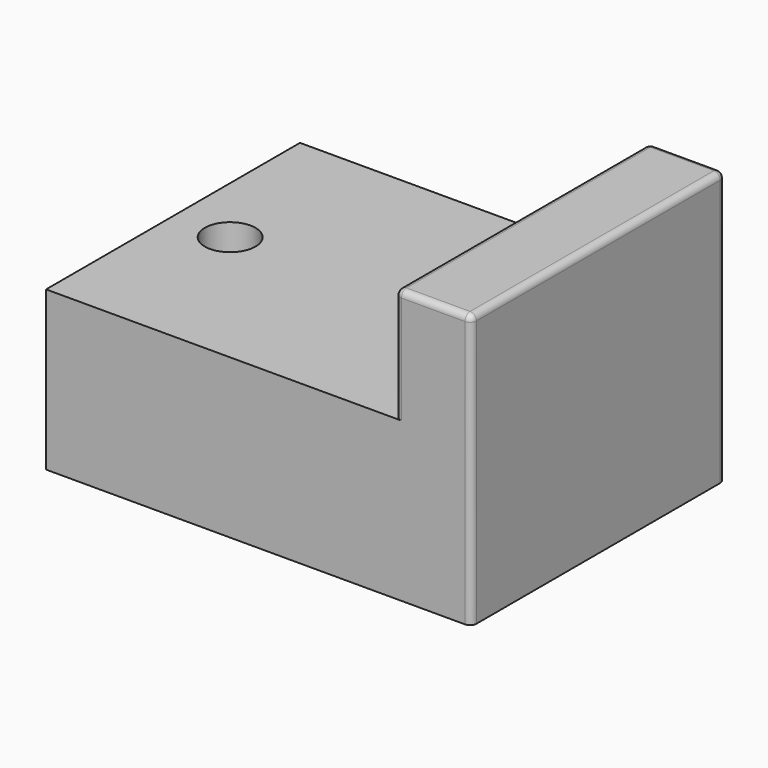
from build123d import *

# Parameters (mm, degrees)
F0_W     = 55
F0_H     = 50
F0_R     = 4
F0_W_2   = 12
F1_DEPTH = 25
F2_DEPTH = 43
F3_R     = 1


with BuildPart() as f1:
    # F0 (on Top) → F1 (new body)
    with BuildSketch(Plane.XY):
        Rectangle(F0_W, F0_H)
        with Locations((-18.5, 0)):
            Circle(F0_R, mode=Mode.SUBTRACT)
        with Locations((33.5, 0)):
            Rectangle(F0_W_2, F0_H)
    extrude(amount=F1_DEPTH)

    # F0 (on Top) → F2 (join)
    with BuildSketch(Plane.XY):
        with Locations((33.5, 0)):
            Rectangle(F0_W_2, F0_H)
    extrude(amount=F2_DEPTH)

    # F3
    f3_edges = [f1.edges().sort_by_distance(p)[0] for p in [
        (27.5, 25, 34),
        (33.5, 25, 43),
        (39.5, 25, 21.5),
        (39.5, 0, 43),
        (27.5, 0, 43),
        (33.5, -25, 43),
        (27.5, -25, 34),
        (39.5, -25, 21.5),
    ]]
    fillet(f3_edges, radius=F3_R)


solid = f1.part
